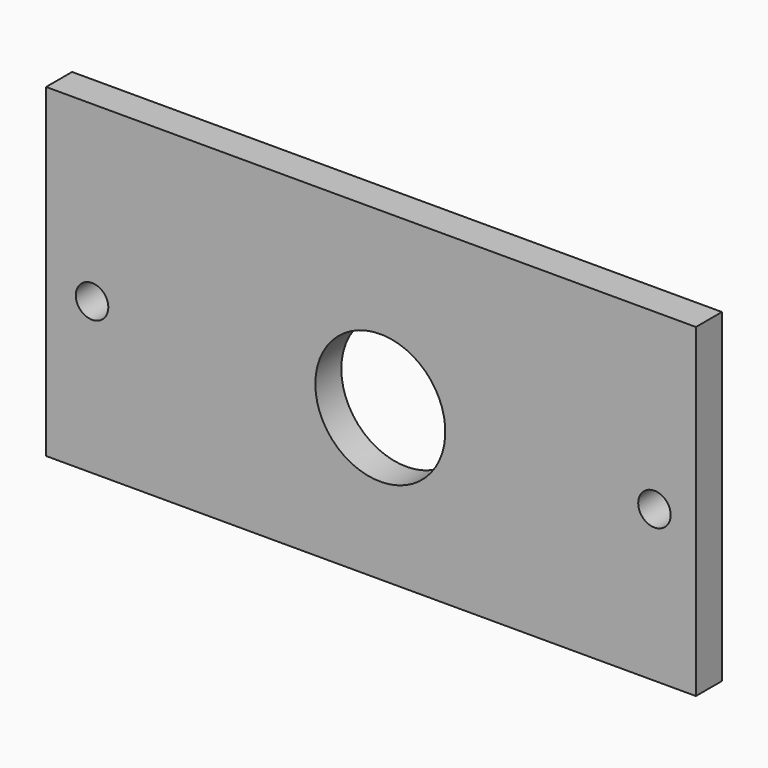
from build123d import *

# Parameters (mm, degrees)
F0_W     = 40
F0_H     = 2
F1_DEPTH = 20
F4_D     = 8
F5_D     = 2


with BuildPart() as f1:
    # F0 (on Top) → F1 (new body)
    with BuildSketch(Plane.XY):
        with Locations((-38.553373, 16.042135)):
            Rectangle(F0_W, F0_H)
    extrude(amount=F1_DEPTH)

    # F4 (through all)
    with Locations(Plane.XZ):
        with Locations((-37.980106, 9.301319)):
            Hole(F4_D / 2)

    # F5 (through all)
    with Locations(Plane.XZ):
        with Locations((-55.724628, 9.301319), (-21.106074, 9.301319)):
            Hole(F5_D / 2)


solid = f1.part
